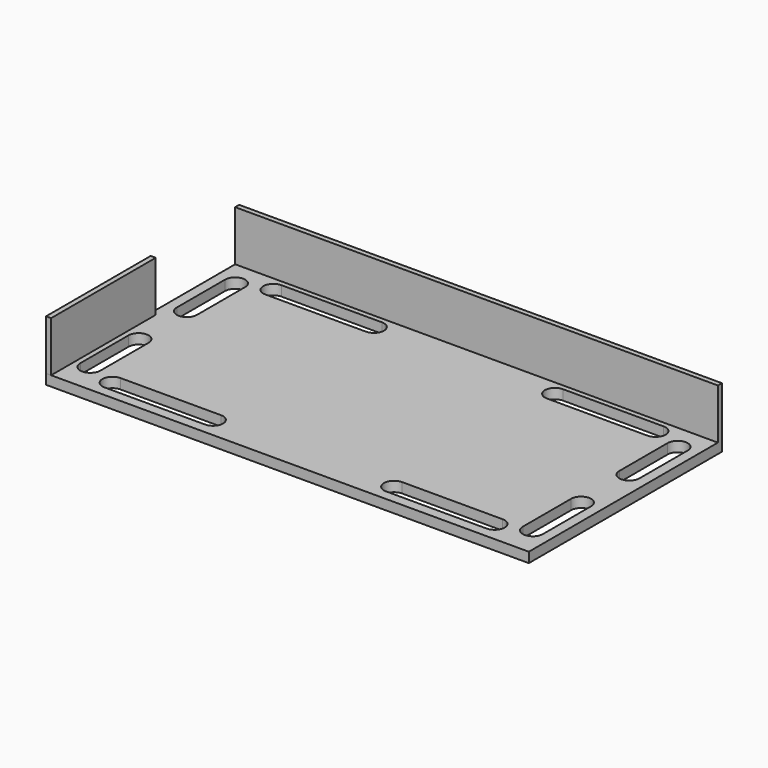
from build123d import *

# Parameters (mm, degrees)
F0_W     = 609.6
F0_H     = 304.8
F1_DEPTH = 12.7
F2_W     = 609.6
F2_H     = 63.5
F3_DEPTH = 6.35
F4_W     = 165.1
F4_H     = 63.5
F5_DEPTH = 6.35


with BuildPart() as f1:
    # F0 (on Top) → F1 (new body)
    with BuildSketch(Plane.XY):
        with Locations((304.8, 152.4)):
            Rectangle(F0_W, F0_H)
        with BuildLine():
            ThreePointArc((190.5, 38.1), (203.2, 25.4), (190.5, 12.7))
            Line((190.5, 12.7), (63.5, 12.7))
            ThreePointArc((63.5, 12.7), (50.8, 25.4), (63.5, 38.1))
            Line((63.5, 38.1), (190.5, 38.1))
        make_face(mode=Mode.SUBTRACT)
        with BuildLine():
            ThreePointArc((38.1, 38.1), (25.4, 25.4), (12.7, 38.1))
            Line((12.7, 38.1), (12.7, 114.3))
            ThreePointArc((12.7, 114.3), (25.4, 127), (38.1, 114.3))
            Line((38.1, 114.3), (38.1, 38.1))
        make_face(mode=Mode.SUBTRACT)
        with BuildLine():
            ThreePointArc((546.1, 38.1), (558.8, 25.4), (546.1, 12.7))
            Line((546.1, 12.7), (419.1, 12.7))
            ThreePointArc((419.1, 12.7), (406.4, 25.4), (419.1, 38.1))
            Line((419.1, 38.1), (546.1, 38.1))
        make_face(mode=Mode.SUBTRACT)
        with BuildLine():
            ThreePointArc((596.9, 38.1), (584.2, 25.4), (571.5, 38.1))
            Line((571.5, 38.1), (571.5, 114.3))
            ThreePointArc((571.5, 114.3), (584.2, 127), (596.9, 114.3))
            Line((596.9, 114.3), (596.9, 38.1))
        make_face(mode=Mode.SUBTRACT)
        with BuildLine():
            ThreePointArc((38.1, 190.5), (25.4, 177.8), (12.7, 190.5))
            Line((12.7, 190.5), (12.7, 266.7))
            ThreePointArc((12.7, 266.7), (25.4, 279.4), (38.1, 266.7))
            Line((38.1, 266.7), (38.1, 190.5))
        make_face(mode=Mode.SUBTRACT)
        with BuildLine():
            ThreePointArc((190.5, 292.1), (203.2, 279.4), (190.5, 266.7))
            Line((190.5, 266.7), (63.5, 266.7))
            ThreePointArc((63.5, 266.7), (50.8, 279.4), (63.5, 292.1))
            Line((63.5, 292.1), (190.5, 292.1))
        make_face(mode=Mode.SUBTRACT)
        with BuildLine():
            ThreePointArc((596.9, 190.5), (584.2, 177.8), (571.5, 190.5))
            Line((571.5, 190.5), (571.5, 266.7))
            ThreePointArc((571.5, 266.7), (584.2, 279.4), (596.9, 266.7))
            Line((596.9, 266.7), (596.9, 190.5))
        make_face(mode=Mode.SUBTRACT)
        with BuildLine():
            ThreePointArc((546.1, 292.1), (558.8, 279.4), (546.1, 266.7))
            Line((546.1, 266.7), (419.1, 266.7))
            ThreePointArc((419.1, 266.7), (406.4, 279.4), (419.1, 292.1))
            Line((419.1, 292.1), (546.1, 292.1))
        make_face(mode=Mode.SUBTRACT)
    extrude(amount=F1_DEPTH)

    # F2 (on face) → F3 (join)
    with BuildSketch(Plane(origin=(0, 304.8, 0), x_dir=(-1, 0, 0), z_dir=(0, 1, 0))):
        with Locations((-304.8, 44.45)):
            Rectangle(F2_W, F2_H)
    extrude(amount=-F3_DEPTH)


with BuildPart() as f5:
    # F4 (on face) → F5 (new body)
    with BuildSketch(Plane(origin=(0, 0, 0), x_dir=(0, -1, 0), z_dir=(-1, 0, 0))):
        with Locations((-82.55, 44.45)):
            Rectangle(F4_W, F4_H)
    extrude(amount=-F5_DEPTH)


solid = Compound([f1.part, f5.part])
